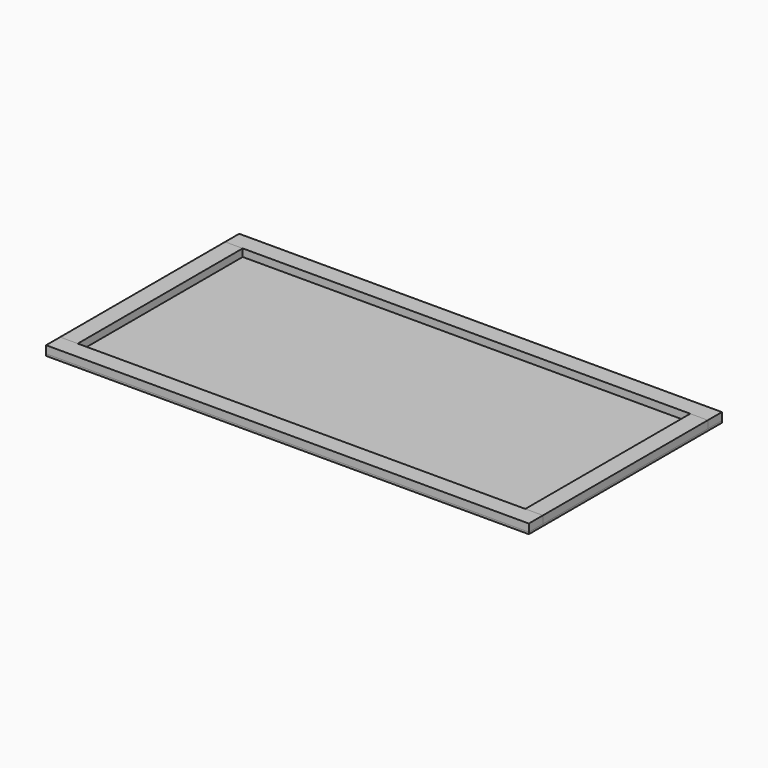
from build123d import *

# Parameters (mm, degrees)
F1_DEPTH = 38.1
F0_W     = 88.9
F0_H     = 1041.4
F2_DEPTH = 38.1
F0_W_2   = 2260.6
F3_DEPTH = 9.525


with BuildPart() as f1:
    # F0 (on Top) → F1 (new body)
    with BuildSketch(Plane.XY):
        Polygon((1219.2, 520.7), (1219.2, 609.6), (-1219.2, 609.6), (-1219.2, 520.7), (-1130.3, 520.7), (1130.3, 520.7), align=None)
        Polygon((1219.2, -609.6), (1219.2, -520.7), (1130.3, -520.7), (-1130.3, -520.7), (-1219.2, -520.7), (-1219.2, -609.6), align=None)
    extrude(amount=F1_DEPTH)


with BuildPart() as f2:
    # F0 (on Top) → F2 (new body)
    with BuildSketch(Plane.XY):
        with Locations((-1174.75, 0)):
            Rectangle(F0_W, F0_H)
        with Locations((1174.75, 0)):
            Rectangle(F0_W, F0_H)
    extrude(amount=F2_DEPTH)


with BuildPart() as f3:
    # F0 (on Top) → F3 (new body)
    with BuildSketch(Plane.XY):
        Polygon((1219.2, 520.7), (1219.2, 609.6), (-1219.2, 609.6), (-1219.2, 520.7), (-1130.3, 520.7), (1130.3, 520.7), align=None)
        Rectangle(F0_W_2, F0_H)
        with Locations((-1174.75, 0)):
            Rectangle(F0_W, F0_H)
        Polygon((1219.2, -609.6), (1219.2, -520.7), (1130.3, -520.7), (-1130.3, -520.7), (-1219.2, -520.7), (-1219.2, -609.6), align=None)
        with Locations((1174.75, 0)):
            Rectangle(F0_W, F0_H)
    extrude(amount=-F3_DEPTH)


solid = Compound([f1.part, f2.part, f3.part])
